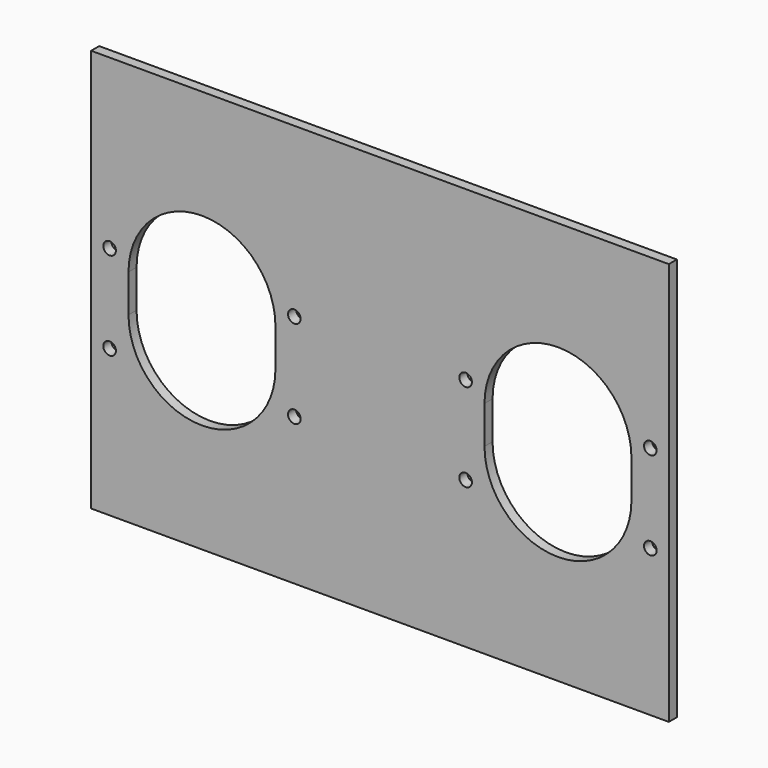
from build123d import *

# Parameters (mm, degrees)
F0_W     = 688
F0_H     = 90
F0_H_2   = 300
F0_R     = 7.5
F1_DEPTH = 12


with BuildPart() as f1:
    # F0 (on Front) → F1 (new body)
    with BuildSketch(Plane.XZ):
        with Locations((344, 345)):
            Rectangle(F0_W, F0_H)
        with Locations((344, 150)):
            Rectangle(F0_W, F0_H_2)
        with Locations((22, 85)):
            Circle(F0_R, mode=Mode.SUBTRACT)
        with Locations((242, 85)):
            Circle(F0_R, mode=Mode.SUBTRACT)
        with Locations((446, 85)):
            Circle(F0_R, mode=Mode.SUBTRACT)
        with Locations((666, 85)):
            Circle(F0_R, mode=Mode.SUBTRACT)
        with Locations((22, 190)):
            Circle(F0_R, mode=Mode.SUBTRACT)
        with BuildLine():
            ThreePointArc((44.5, 172.5), (132, 260), (219.5, 172.5))
            Line((219.5, 172.5), (219.5, 127.5))
            ThreePointArc((219.5, 127.5), (132, 40), (44.5, 127.5))
            Line((44.5, 127.5), (44.5, 172.5))
        make_face(mode=Mode.SUBTRACT)
        with Locations((242, 190)):
            Circle(F0_R, mode=Mode.SUBTRACT)
        with Locations((446, 190)):
            Circle(F0_R, mode=Mode.SUBTRACT)
        with BuildLine():
            ThreePointArc((468.5, 172.5), (556, 260), (643.5, 172.5))
            Line((643.5, 172.5), (643.5, 127.5))
            ThreePointArc((643.5, 127.5), (556, 40), (468.5, 127.5))
            Line((468.5, 127.5), (468.5, 172.5))
        make_face(mode=Mode.SUBTRACT)
        with Locations((666, 190)):
            Circle(F0_R, mode=Mode.SUBTRACT)
        with Locations((344, -45)):
            Rectangle(F0_W, F0_H)
    extrude(amount=F1_DEPTH)


solid = f1.part
